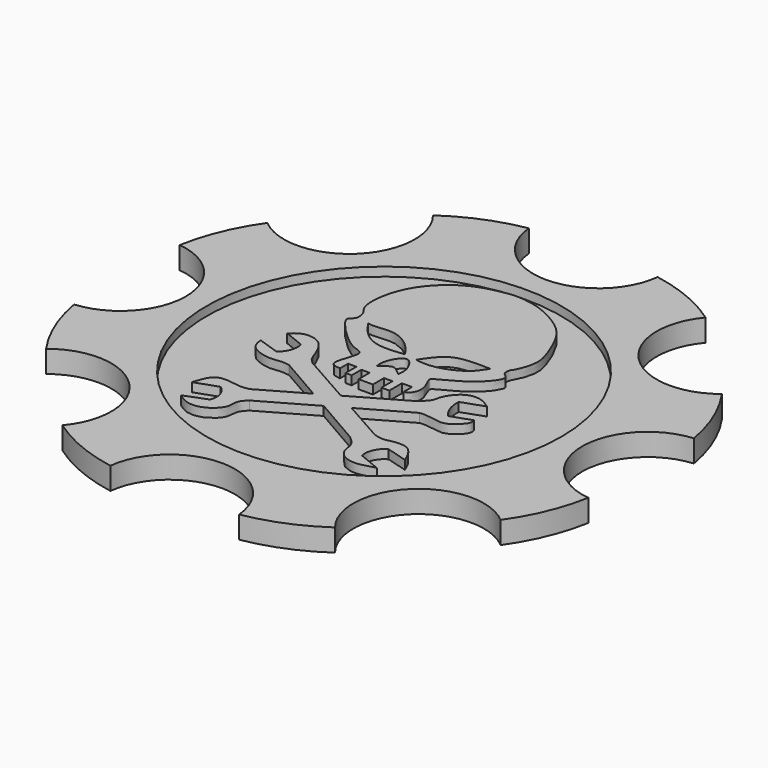
from build123d import *

# Parameters (mm, degrees)
F2_DEPTH = 6.35
F1_R     = 50.6699218712
F3_DEPTH = 6.35
F4_R     = 53.1304590157
F5_DEPTH = 3.81


with BuildPart() as f2:
    # F0 (on Top) → F2 (new body)
    with BuildSketch(Plane.XY):
        with BuildLine():
            Line((-4.7681073588, -18.0821087973), (-16.9928334653, -25.0728949904))
            add(Edge.make_bspline(
                [(-29.420144856, -30.6680891663), (-28.7131966155, -28.3721789004), (-27.2803795216, -23.7189111124), (-19.6775594328, -25.9398034085), (-17.7501610468, -25.3174390011), (-16.9928334653, -25.0728949904)],
                knots=[0, 0, 0, 0, 0.3715626744, 0.7530697736, 1, 1, 1, 1], degree=3))
            Line((-29.420144856, -30.6680891663), (-22.9710377753, -28.423147276))
            ThreePointArc((-22.9710377753, -28.423147276), (-20.9125229208, -31.2201927263), (-20.9812894464, -34.6923992038))
            Line((-20.9812894464, -34.6923992038), (-27.3201875389, -37.1476076543))
            add(Edge.make_bspline(
                [(-13.7968929484, -29.5278429985), (-14.5246517573, -30.2101625151), (-16.0295139966, -31.621065225), (-15.2779352796, -35.2430751987), (-19.590783628, -39.1348187708), (-24.2878300099, -39.3027512523), (-26.3459711422, -37.8399983801), (-27.3201875389, -37.1476076543)],
                knots=[0, 0, 0, 0, 0.172162283, 0.3559977777, 0.5903253143, 0.8060814247, 1, 1, 1, 1], degree=3))
            Line((-13.7968929484, -29.5278429985), (0.7288693753, -21.251536714))
            Line((0.7288693753, -21.251536714), (-4.7681073588, -18.0821087973))
        make_face()
        Polygon((0.6256158528, -14.9976743954), (-4.7681073588, -18.0821087973), (0.7288693753, -21.251536714), (6.1843465639, -18.1431834907), align=None)
        with BuildLine():
            Line((15.3539562598, -6.5751806833), (0.6256158528, -14.9976743954))
            Line((0.6256158528, -14.9976743954), (6.1843465639, -18.1431834907))
            Line((6.1843465639, -18.1431834907), (19.5183642209, -10.5458945036))
            add(Edge.make_bspline(
                [(31.2902629375, -5.7067214511), (31.3946169928, -6.237079194), (31.6455194268, -7.5499225398), (29.2560505308, -9.6297760213), (26.4542312056, -11.9904985701), (21.8358971179, -10.1975435391), (19.5183642209, -10.5458945036)],
                knots=[0, 0, 0, 0, 0.1726761089, 0.4017937798, 0.6479398746, 1, 1, 1, 1], degree=3))
            Line((31.2902629375, -5.7067214511), (25.4758279771, -7.7394093387))
            ThreePointArc((25.4758279771, -7.7394093387), (23.546031058, -4.5923847595), (23.0649653822, -0.932267867))
            Line((23.0649653822, -0.932267867), (29.3521154672, 1.2895070249))
            add(Edge.make_bspline(
                [(29.3521154672, 1.2895070249), (28.2857639936, 2.0303903131), (26.0844381582, 3.559834932), (21.2765557854, 3.1102513554), (18.130501395, -1.6871708176), (18.2935974913, -4.0041486612), (16.4188781526, -5.6437920981), (15.3539562598, -6.5751806833)],
                knots=[0, 0, 0, 0, 0.2015053412, 0.4159781504, 0.6508463446, 0.8016655806, 1, 1, 1, 1], degree=3))
        make_face()
        with BuildLine():
            Line((-17.6707599312, -10.6427418068), (-4.7681073588, -18.0821087973))
            Line((-4.7681073588, -18.0821087973), (0.6256158528, -14.9976743954))
            Line((0.6256158528, -14.9976743954), (-14.0874329954, -6.6720275208))
            add(Edge.make_bspline(
                [(-16.136739403, -3.8728208747), (-15.9553502029, -4.3604588757), (-15.5722113713, -5.390470882), (-14.5995878917, -6.2299713069), (-14.0874329954, -6.6720275208)],
                knots=[0, 0, 0, 0, 0.4734294339, 1, 1, 1, 1], degree=3))
            add(Edge.make_bspline(
                [(-27.5660790503, 1.0641132249), (-26.566720976, 1.9213636917), (-24.5424140823, 3.657816395), (-20.0487429301, 2.9325861074), (-17.6116212417, 0.0849936841), (-16.6418949002, -2.5172466661), (-16.136739403, -3.8728208747)],
                knots=[0, 0, 0, 0, 0.2473702371, 0.5010749293, 0.7400970445, 1, 1, 1, 1], degree=3))
            Line((-27.5660790503, 1.0641132249), (-21.8175947666, -1.2352808844))
            ThreePointArc((-21.8175947666, -1.2352808844), (-21.9117985446, -4.6298370786), (-23.981731385, -7.3219113983))
            Line((-23.981731385, -7.3219113983), (-30.0683621317, -5.2930344827))
            add(Edge.make_bspline(
                [(-30.0683621317, -5.2930344827), (-29.8654735088, -7.7953161672), (-28.0352430148, -9.8277694062), (-23.059939866, -11.0253716268), (-20.0636145638, -10.255006043), (-18.4344503807, -10.5252559561), (-17.6707599312, -10.6427418068)],
                knots=[0, 0, 0, 0, 0.2902110381, 0.5724914531, 0.8006989542, 1, 1, 1, 1], degree=3))
        make_face()
        with BuildLine():
            Line((6.1843465639, -18.1431834907), (0.7288693753, -21.251536714))
            Line((0.7288693753, -21.251536714), (14.5791815594, -29.2373020202))
            add(Edge.make_bspline(
                [(28.680101037, -37.2446477413), (26.3621580968, -37.9567452282), (22.1169881126, -39.2609079944), (17.4433903985, -36.0725825091), (17.6546215471, -31.7524873227), (15.6009474844, -30.0729322544), (14.5791815594, -29.2373020202)],
                knots=[0, 0, 0, 0, 0.3003942923, 0.5501536776, 0.7761876375, 1, 1, 1, 1], degree=3))
            Line((28.680101037, -37.2446477413), (22.42446132, -34.6770361066))
            ThreePointArc((22.42446132, -34.6770361066), (22.7226939534, -31.151876354), (25.1321252435, -28.5614449531))
            Line((25.1321252435, -28.5614449531), (31.1543475837, -30.2887484431))
            add(Edge.make_bspline(
                [(31.1543475837, -30.2887484431), (30.4967712082, -28.4742112036), (28.9737810562, -25.8380992755), (26.636488277, -24.8123718709), (23.247974634, -24.9641394011), (21.3955756304, -25.7657048006), (19.4790104172, -25.3635737352), (18.259357661, -24.9760486186)],
                knots=[0, 0, 0, 0, 0.2536887039, 0.4302158747, 0.6356080696, 0.7957738387, 1, 1, 1, 1], degree=3))
            Line((18.259357661, -24.9760486186), (6.1843465639, -18.1431834907))
        make_face()
    extrude(amount=F2_DEPTH)


with BuildPart() as f2b:
    # F0 (on Top) → F2, piece 2 (new body)
    with BuildSketch(Plane.XY):
        with BuildLine():
            Line((-1.2687537819, -2.3453475442), (-1.2687537819, -6.3091702759))
            Line((-1.2687537819, -6.3091702759), (2.8357962146, -6.3091702759))
            Line((2.8357962146, -6.3091702759), (2.8357962146, -2.3453475442))
            Line((2.8357962146, -2.3453475442), (5.2516167052, -2.3453475442))
            Line((5.2516167052, -2.3453475442), (5.2516167052, -6.3091702759))
            Line((5.2516167052, -6.3091702759), (7.5267110951, -6.3091702759))
            Line((7.5267110951, -6.3091702759), (7.5267110951, -1.805892447))
            Line((7.5267110951, -1.805892447), (10.411622934, -1.805892447))
            Line((10.411622934, -1.805892447), (10.411622934, -4.8080775887))
            add(Edge.make_bspline(
                [(-7.7891247347, -4.8080775887), (-9.0031770114, -4.676561857), (-12.0996276175, -4.3411298702), (-7.5547571825, 4.0884455129), (-11.4472701197, 4.7895442969), (-15.4812068697, 7.2686640659), (-22.9890872328, 15.0777313605), (-19.900515955, 15.8334827884), (-20.0166868704, 19.4936651633), (-22.8527573313, 21.5793758461), (-22.2918722874, 31.58739887), (-16.7668645203, 40.2785244168), (-9.2171220128, 45.2061850864), (-3.2061887754, 46.4388680071), (0.6877263486, 47.2253388884), (7.6699630621, 46.5634166657), (15.1270829838, 42.7965071725), (20.4572679831, 38.2870247659), (24.1270744598, 29.2115937484), (25.2931460415, 24.455110952), (23.2037160977, 18.985197815), (22.413902375, 18.3233267734), (22.0127096459, 15.8163848922), (25.2860185303, 14.946577685), (19.607445336, 7.6691211175), (11.4315669122, 4.3306575395), (11.0284945716, 3.2901108608), (12.3153285197, 0.9726755431), (13.2379814793, -2.39807803), (11.6073078254, -4.6165161807), (10.411622934, -4.8080775887)],
                knots=[0, 0, 0, 0, 0.0280662938, 0.0716437026, 0.0970812615, 0.1357339216, 0.1850381275, 0.2057656808, 0.2337948427, 0.2629182406, 0.3121152576, 0.365179431, 0.4137075912, 0.4532754959, 0.485452468, 0.5280159816, 0.5750494546, 0.6184290792, 0.6685075613, 0.70584713, 0.7432087341, 0.7603173682, 0.7833823789, 0.8060125635, 0.8514973696, 0.9004097821, 0.9141925851, 0.9397450598, 0.9703264915, 1, 1, 1, 1], degree=3))
            Line((-7.7891247347, -4.8080775887), (-7.7891247347, -1.9231651677))
            Line((-7.7891247347, -1.9231651677), (-5.3967586718, -1.9231651677))
            Line((-5.3967586718, -1.9231651677), (-5.3967586718, -5.7931696065))
            Line((-5.3967586718, -5.7931696065), (-3.6376656499, -5.7931696065))
            Line((-3.6376656499, -5.7931696065), (-3.6376656499, -2.3453475442))
            Line((-3.6376656499, -2.3453475442), (-1.2687537819, -2.3453475442))
        make_face()
        with BuildLine():
            add(Edge.make_bspline(
                [(-2.0498516969, 1.0766591877), (-1.6142369902, 1.4245398175), (-0.7210341, 2.1378490314), (0.9788257725, 3.6355016863), (2.9320111741, 2.1296688223), (3.7499473414, 1.4527968103), (4.1303718463, 1.1379816569)],
                knots=[0, 0, 0, 0, 0.24337453, 0.4990254696, 0.76699528, 1, 1, 1, 1], degree=3))
            add(Edge.make_bspline(
                [(-2.0498516969, 1.0766591877), (-2.1862441275, 1.9069673171), (-2.5050161924, 3.8330867654), (0.8487801809, 10.1928227938), (4.5863701407, 4.2429937783), (4.2291049428, 2.0831881053), (4.1303718463, 1.1379816569)],
                knots=[0, 0, 0, 0, 0.2155901607, 0.4973925581, 0.7722767741, 1, 1, 1, 1], degree=3))
        make_face(mode=Mode.SUBTRACT)
        with BuildLine():
            add(Edge.make_bspline(
                [(-16.5048222989, 16.0825103521), (-15.4503809283, 14.5983874731), (-13.3321737636, 11.6170176183), (-8.1814625502, 8.7014579523), (-3.3478294541, 9.2439609954), (-0.7514004828, 9.5353713259)],
                knots=[0, 0, 0, 0, 0.3144975948, 0.6317762914, 1, 1, 1, 1], degree=3))
            add(Edge.make_bspline(
                [(-16.5048222989, 16.0825103521), (-14.208287932, 15.5990282074), (-8.3953283913, 17.7492465333), (-2.5040190667, 12.6779973507), (-0.7514004828, 9.5353713259)],
                knots=[0, 0, 0, 0, 0.4629380327, 1, 1, 1, 1], degree=3))
        make_face(mode=Mode.SUBTRACT)
        with BuildLine():
            add(Edge.make_bspline(
                [(18.6141878366, 15.9834157676), (17.9381671977, 14.9684719796), (16.523405335, 12.7465116124), (12.5621641788, 9.9980832744), (6.7545841448, 8.1868236884), (2.8779371642, 9.0793510899)],
                knots=[0, 0, 0, 0, 0.2666876779, 0.5644406158, 1, 1, 1, 1], degree=3))
            add(Edge.make_bspline(
                [(2.8779371642, 9.0793510899), (3.8673880403, 10.5536840702), (5.7869421014, 13.4139189018), (9.8791213475, 16.1671070676), (15.4046665667, 16.0509093734), (18.6141878366, 15.9834157676)],
                knots=[0, 0, 0, 0, 0.308386067, 0.5982750044, 1, 1, 1, 1], degree=3))
        make_face(mode=Mode.SUBTRACT)
    extrude(amount=F2_DEPTH)


with BuildPart() as f3:
    # F1 (on Top) → F3 (new body)
    with BuildSketch(Plane.XY):
        with BuildLine():
            ThreePointArc((-37.7633758651, 65.9093725651), (-39.3187089313, 40.8996848601), (-64.3592157374, 39.9634375942))
            ThreePointArc((-64.3592157374, 39.9634375942), (-69.7831941574, 30.1437838179), (-72.9431509972, 19.3799640983))
            ThreePointArc((-72.9431509972, 19.3799640983), (-56.3584177837, 0.5956577686), (-73.4027031601, -17.7726811889))
            ThreePointArc((-73.4027031601, -17.7726811889), (-70.2944913078, -28.5515568847), (-64.9177483022, -38.3971537096))
            ThreePointArc((-64.9177483022, -38.3971537096), (-39.9080605972, -39.9524867758), (-38.9718133313, -64.9929935819))
            ThreePointArc((-38.9718133313, -64.9929935819), (-29.1521595551, -70.4169720019), (-18.3883398355, -73.5769288417))
            ThreePointArc((-18.3883398355, -73.5769288417), (0.3959664942, -56.9921956282), (18.7643054517, -74.0364810046))
            ThreePointArc((18.7643054517, -74.0364810046), (29.5431811476, -70.9282691523), (39.3887779724, -65.5515261467))
            ThreePointArc((39.3887779724, -65.5515261467), (40.9441110387, -40.5418384417), (65.9846178448, -39.6055911758))
            ThreePointArc((65.9846178448, -39.6055911758), (71.4085962647, -29.7859373996), (74.5685531045, -19.02211768))
            ThreePointArc((74.5685531045, -19.02211768), (57.9838198911, -0.2378113503), (75.0281052674, 18.1305276072))
            ThreePointArc((75.0281052674, 18.1305276072), (71.9198934151, 28.9094033031), (66.5431504096, 38.755000128))
            ThreePointArc((66.5431504096, 38.755000128), (41.5334627046, 40.3103331942), (40.5972154387, 65.3508400003))
            ThreePointArc((40.5972154387, 65.3508400003), (30.7775616624, 70.7748184203), (20.0137419428, 73.93477526))
            ThreePointArc((20.0137419428, 73.93477526), (1.2294356131, 57.3500420466), (-17.1389033444, 74.3943274229))
            ThreePointArc((-17.1389033444, 74.3943274229), (-27.9177790402, 71.2861155706), (-37.7633758651, 65.9093725651))
        make_face()
        with Locations((0.8127010537, 0.1789232092)):
            Circle(F1_R, mode=Mode.SUBTRACT)
    extrude(amount=F3_DEPTH)


with BuildPart() as f5:
    # F4 (on Top) → F5 (new body)
    with BuildSketch(Plane.XY):
        Circle(F4_R)
    extrude(amount=F5_DEPTH)


solid = Compound([f2.part, f2b.part, f3.part, f5.part])
